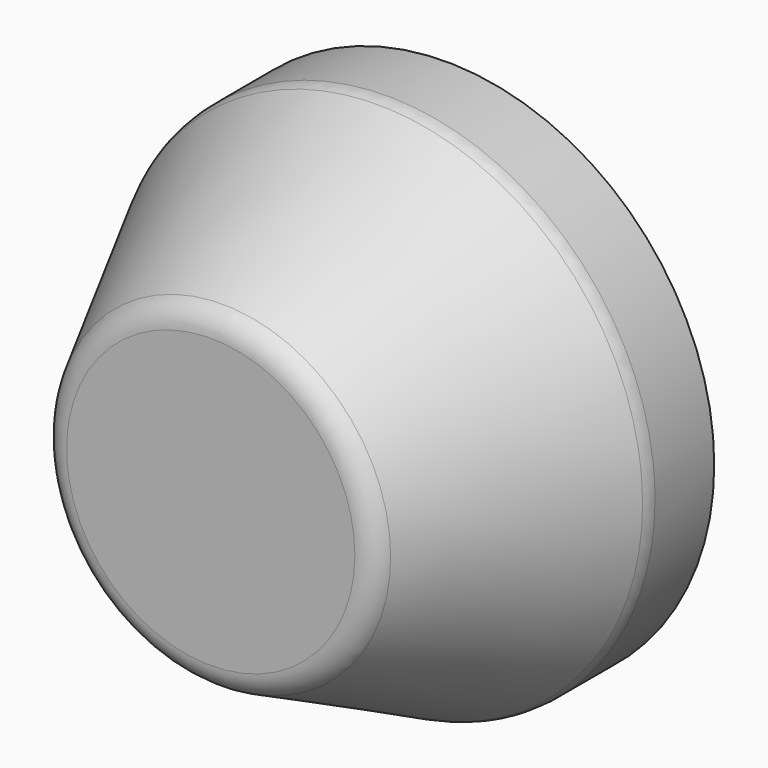
from build123d import *

# Parameters (mm, degrees)
CYLINDER119_R             = 5
CYLINDER119_DEPTH         = 7
CYLINDER118_R             = 8.55
CYLINDER118_DEPTH         = 7
CHAMFER005_SIZE           = 2
CYLINDER117_R             = 10
CYLINDER117_DEPTH         = 3
CHAMFER006_SIZE           = 1.54
FILLET006_R               = 1
FILLET006_PLACEMENT_ANGLE = 90


with BuildPart() as cylinder119:
    # Cylinder119 → Cylinder119 (new body)
    with BuildSketch(Plane.XY.offset(5)):
        Circle(CYLINDER119_R)
    extrude(amount=CYLINDER119_DEPTH)


with BuildPart() as fusion112:
    # Cylinder118 → Cylinder118 (new body)
    with BuildSketch(Plane.XY.offset(7)):
        Circle(CYLINDER118_R)
    extrude(amount=CYLINDER118_DEPTH)

    # Chamfer005
    chamfer005_edges = [fusion112.edges().sort_by_distance(p)[0] for p in [
        (-8.55, 0, 7),
    ]]
    chamfer(chamfer005_edges, length=CHAMFER005_SIZE)

    # Fusion112: union Cylinder119
    add(cylinder119.part)


with BuildPart() as cylinder117:
    # Cylinder117 → Cylinder117 (new body)
    with BuildSketch(Plane.XY.offset(11)):
        Circle(CYLINDER117_R)
    extrude(amount=CYLINDER117_DEPTH)


with BuildPart() as hub_wide_cap_left:
    # Cone → Cone (revolve)
    with BuildSketch(Plane(origin=(0, 0, 3), x_dir=(1, 0, 0), z_dir=(0, -1, 0))):
        Polygon((0, 0), (6, 0), (10, 8), (0, 8), align=None)
    revolve(axis=Axis((0, 0, 3), (0, 0, 1)))

    # Fusion111: union Cylinder117
    add(cylinder117.part)

    # Cut039: cut Fusion112
    add(fusion112.part, mode=Mode.SUBTRACT)

    # Chamfer006
    chamfer006_edges = [hub_wide_cap_left.edges().sort_by_distance(p)[0] for p in [
        (-5, 0, 7),
    ]]
    chamfer(chamfer006_edges, length=CHAMFER006_SIZE)

    # Fillet006
    fillet006_edges = [hub_wide_cap_left.edges().sort_by_distance(p)[0] for p in [
        (-10, 0, 11),
        (-6, 0, 3),
    ]]
    fillet(fillet006_edges, radius=FILLET006_R)


with BuildPart() as hub_wide_cap_left_1:
    # Fillet006 placement: moved
    add(hub_wide_cap_left.part.moved(Location((0, -88, 0))).rotate(Axis((0, -88, 0), (-1, 0, 0)), FILLET006_PLACEMENT_ANGLE))


solid = hub_wide_cap_left_1.part
